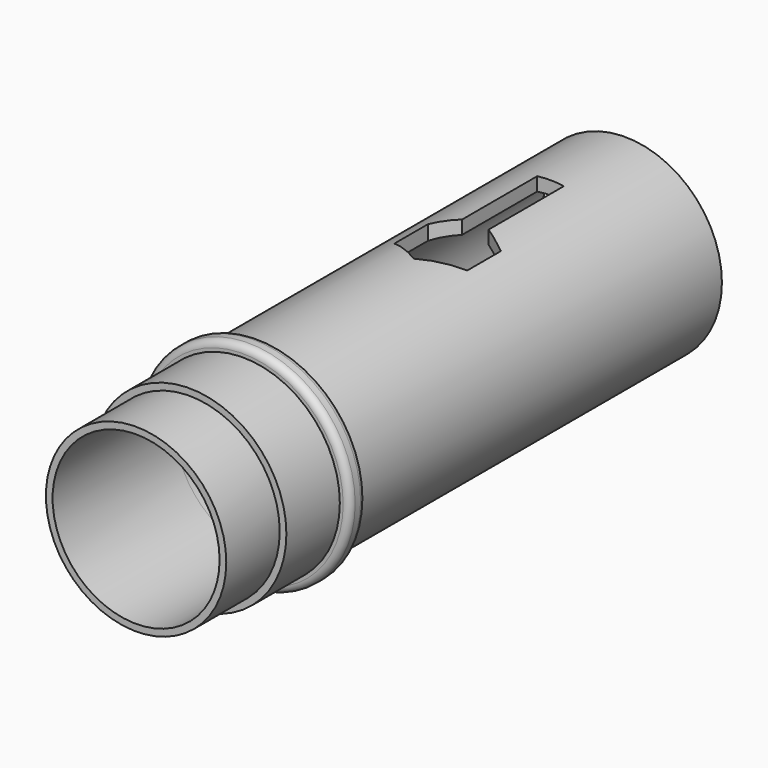
from build123d import *

# Parameters (mm, degrees)
F0_R      = 20.32
F0_R_2    = 15.875
F1_DEPTH  = 1.905
F2_R      = 1.27
F3_R      = 18.415
F3_R_2    = 15.875
F4_DEPTH  = 14.605
F6_START  = 14.605
F5_R      = 17.145
F5_R_2    = 15.875
F6_DEPTH  = 12.7
F8_START  = -1.905
F7_R      = 18.415
F7_R_2    = 15.875
F8_DEPTH  = 86.995
F10_W     = 5.08
F10_H     = 20.32
F11_DEPTH = 25.4


with BuildPart() as f1:
    # F0 (on Front) → F1 (new body, symmetric)
    with BuildSketch(Plane.XZ):
        Circle(F0_R)
        Circle(F0_R_2, mode=Mode.SUBTRACT)
    extrude(amount=F1_DEPTH, both=True)

    # F2
    f2_edges = [f1.edges().sort_by_distance(p)[0] for p in [
        (-20.32, 1.905, 0),
        (20.32, 0, 0),
        (-20.32, -1.905, 0),
    ]]
    fillet(f2_edges, radius=F2_R)

    # F3 (on Front) → F4 (join)
    with BuildSketch(Plane.XZ):
        Circle(F3_R)
        Circle(F3_R_2, mode=Mode.SUBTRACT)
    extrude(amount=F4_DEPTH)

    # F5 (on Front) → F6 (join)
    with BuildSketch(Plane.XZ.offset(F6_START)):
        Circle(F5_R)
        Circle(F5_R_2, mode=Mode.SUBTRACT)
    extrude(amount=F6_DEPTH)


with BuildPart() as f8:
    # F7 (on Front) → F8 (new body)
    with BuildSketch(Plane.XZ.offset(F8_START)):
        Circle(F7_R)
        Circle(F7_R_2, mode=Mode.SUBTRACT)
    extrude(amount=-F8_DEPTH)

    # F9 (on Top) + F10 (on Top) → F11 (cut)
    with BuildSketch(Plane.XY):
        Polygon((-6.9290692557, 42.7355), (0, 38.735), (6.9290692557, 42.7355), (6.9290692557, 50.7365), (0, 54.737), (-6.9290692557, 50.7365), align=None)
    with BuildSketch(Plane.XY):
        with Locations((0.054011005, 60.96)):
            Rectangle(F10_W, F10_H)
    extrude(amount=F11_DEPTH, mode=Mode.SUBTRACT)


solid = Compound([f1.part, f8.part])
